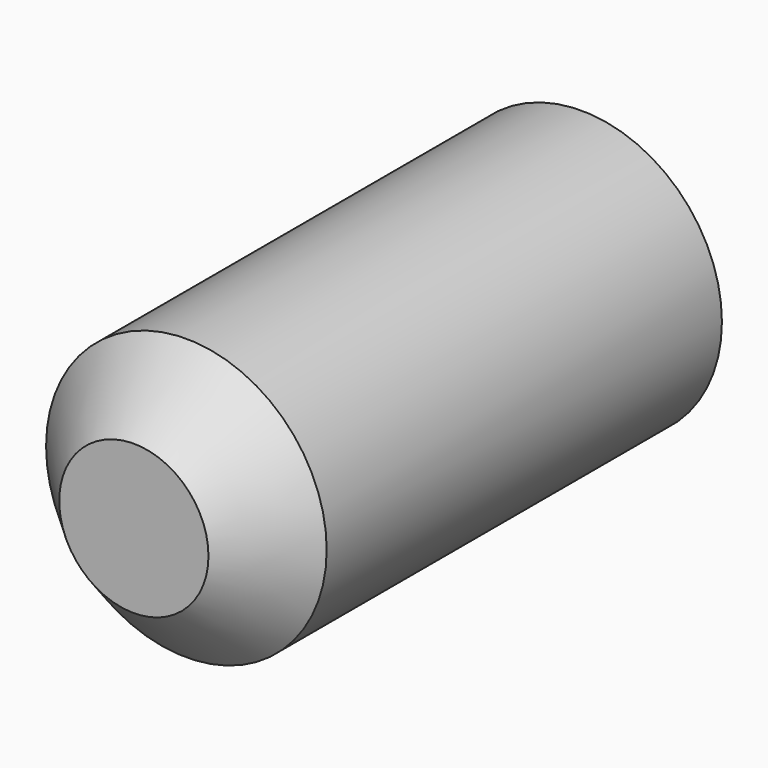
from build123d import *

# Parameters (mm, degrees)
F0_R     = 2.3876
F1_DEPTH = 9.525
F3_DEPTH = 4.064
F4_SIZE  = 1.1176


with BuildPart() as f1:
    # F0 (on Front) → F1 (new body)
    with BuildSketch(Plane.XZ):
        Circle(F0_R)
    extrude(amount=-F1_DEPTH)

    # F2 (on face) → F3 (cut)
    with BuildSketch(Plane(origin=(0, 9.525, 0), x_dir=(-1, 0, 0), z_dir=(0, 1, 0))):
        Polygon((-1.363001, 0.047171), (-0.722352, -1.156808), (0.640649, -1.203979), (1.363001, -0.047171), (0.722352, 1.156808), (-0.640649, 1.203979), align=None)
    extrude(amount=-F3_DEPTH, mode=Mode.SUBTRACT)

    # F4
    f4_edges = [f1.edges().sort_by_distance(p)[0] for p in [
        (-2.3876, 0, 0),
    ]]
    chamfer(f4_edges, length=F4_SIZE)


solid = f1.part
